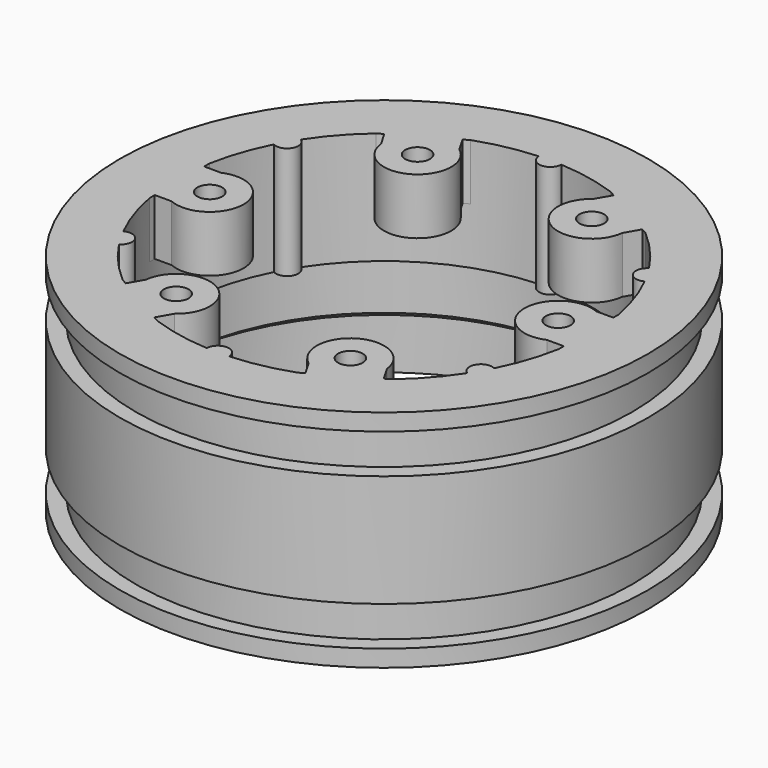
from build123d import *

# Parameters (mm, degrees)
CYLINDER101_R               = 1.1
CYLINDER101_DEPTH           = 5
BOX013_W                    = 2
BOX013_H                    = 5.5
BOX013_DEPTH                = 5
BOX012_W                    = 0.75
BOX012_H                    = 8
BOX012_DEPTH                = 5
CYLINDER100_R               = 3
CYLINDER100_DEPTH           = 5
CUT064_PLACEMENT_ANGLE      = 120
CYLINDER104_R               = 1.1
CYLINDER104_DEPTH           = 5
CUT067_PLACEMENT_ANGLE      = -60
CYLINDER102_R               = 1.1
CYLINDER102_DEPTH           = 5
CUT065_PLACEMENT_ANGLE      = 180
CYLINDER106_R               = 1.1
CYLINDER106_DEPTH           = 5
CYLINDER103_R               = 1.1
CYLINDER103_DEPTH           = 5
CUT066_PLACEMENT_ANGLE      = 240
CYLINDER098_R               = 1.1
CYLINDER098_DEPTH           = 5
CUT063_PLACEMENT_ANGLE      = 60
CYLINDER007_R               = 19.25
CYLINDER007_DEPTH           = 5
CYLINDER018_R               = 22.5
CYLINDER018_DEPTH           = 0.5
CYLINDER070_R               = 20
CYLINDER070_DEPTH           = 5
CYLINDER006_R               = 18.5
CYLINDER006_DEPTH           = 20
CYLINDER002_R               = 22.1
CYLINDER002_DEPTH           = 17
CYLINDER001_R               = 23.5
CYLINDER001_DEPTH           = 17
CYLINDER_R                  = 23.5
CYLINDER_DEPTH              = 20
CYLINDER003_R               = 22
CYLINDER003_DEPTH           = 17
CYLINDER004_R               = 23.5
CYLINDER004_DEPTH           = 10
CUT060_PLACEMENT_ANGLE      = 180
FUSION050_PLACEMENT_ANGLE   = 180
CYLINDER073_R               = 1
CYLINDER073_DEPTH           = 10
CYLINDER073_PLACEMENT_ANGLE = 120
CYLINDER075_R               = 1
CYLINDER075_DEPTH           = 10
CYLINDER075_PLACEMENT_ANGLE = 240
CYLINDER072_R               = 1
CYLINDER072_DEPTH           = 10
CYLINDER072_PLACEMENT_ANGLE = 60
CYLINDER074_R               = 1
CYLINDER074_DEPTH           = 10
CYLINDER076_R               = 1
CYLINDER076_DEPTH           = 10
CYLINDER076_PLACEMENT_ANGLE = -60
CYLINDER071_R               = 1
CYLINDER071_DEPTH           = 10
FUSION030_PLACEMENT_ANGLE   = 30


with BuildPart() as cylinder101:
    # Cylinder101 → Cylinder101 (new body)
    with BuildSketch(Plane(origin=(15.5, 0, 15), x_dir=(1, 0, 0), z_dir=(0, 0, 1))):
        Circle(CYLINDER101_R)
    extrude(amount=CYLINDER101_DEPTH)


with BuildPart() as cube013:
    # Box013 → Box013 (new body)
    with BuildSketch(Plane(origin=(16.5, -2.75, 15), x_dir=(1, 0, 0), z_dir=(0, 0, 1))):
        with Locations((1, 2.75)):
            Rectangle(BOX013_W, BOX013_H)
    extrude(amount=BOX013_DEPTH)


with BuildPart() as cube012:
    # Box012 → Box012 (new body)
    with BuildSketch(Plane(origin=(18.2, -4, 15), x_dir=(1, 0, 0), z_dir=(0, 0, 1))):
        with Locations((0.375, 4)):
            Rectangle(BOX012_W, BOX012_H)
    extrude(amount=BOX012_DEPTH)


with BuildPart() as cylinder100:
    # Cylinder100 → Cylinder100 (new body)
    with BuildSketch(Plane(origin=(15.5, 0, 15), x_dir=(1, 0, 0), z_dir=(0, 0, 1))):
        Circle(CYLINDER100_R)
    extrude(amount=CYLINDER100_DEPTH)


with BuildPart() as cut064:
    # Fusion043 base: copy of Cylinder100
    add(cylinder100.part)

    # Fusion043: union Cube013, Cube012
    add(cube013.part)
    add(cube012.part)

    # Cut064: cut Cylinder101
    add(cylinder101.part, mode=Mode.SUBTRACT)


with BuildPart() as cut064_1:
    # Cut064 placement: moved
    add(cut064.part.moved(Location((0, 0, 9))).rotate(Axis((0, 0, 9), (0, 0, 1)), CUT064_PLACEMENT_ANGLE))


with BuildPart() as cylinder104:
    # Cylinder104 → Cylinder104 (new body)
    with BuildSketch(Plane(origin=(15.5, 0, 15), x_dir=(1, 0, 0), z_dir=(0, 0, 1))):
        Circle(CYLINDER104_R)
    extrude(amount=CYLINDER104_DEPTH)


with BuildPart() as cut067:
    # Fusion046 base: copy of Cylinder100
    add(cylinder100.part)

    # Fusion046: union Cube013, Cube012
    add(cube013.part)
    add(cube012.part)

    # Cut067: cut Cylinder104
    add(cylinder104.part, mode=Mode.SUBTRACT)


with BuildPart() as cut067_1:
    # Cut067 placement: moved
    add(cut067.part.moved(Location((0, 0, 9))).rotate(Axis((0, 0, 9), (0, 0, 1)), CUT067_PLACEMENT_ANGLE))


with BuildPart() as cylinder102:
    # Cylinder102 → Cylinder102 (new body)
    with BuildSketch(Plane(origin=(15.5, 0, 15), x_dir=(1, 0, 0), z_dir=(0, 0, 1))):
        Circle(CYLINDER102_R)
    extrude(amount=CYLINDER102_DEPTH)


with BuildPart() as cut065:
    # Fusion044 base: copy of Cylinder100
    add(cylinder100.part)

    # Fusion044: union Cube013, Cube012
    add(cube013.part)
    add(cube012.part)

    # Cut065: cut Cylinder102
    add(cylinder102.part, mode=Mode.SUBTRACT)


with BuildPart() as cut065_1:
    # Cut065 placement: moved
    add(cut065.part.moved(Location((0, 0, 9))).rotate(Axis((0, 0, 9), (0, 0, 1)), CUT065_PLACEMENT_ANGLE))


with BuildPart() as cylinder106:
    # Cylinder106 → Cylinder106 (new body)
    with BuildSketch(Plane(origin=(15.5, 0, 15), x_dir=(1, 0, 0), z_dir=(0, 0, 1))):
        Circle(CYLINDER106_R)
    extrude(amount=CYLINDER106_DEPTH)


with BuildPart() as cut069:
    # Fusion048 base: copy of Cylinder100
    add(cylinder100.part)

    # Fusion048: union Cube013, Cube012
    add(cube013.part)
    add(cube012.part)

    # Cut069: cut Cylinder106
    add(cylinder106.part, mode=Mode.SUBTRACT)


with BuildPart() as cut069_1:
    # Cut069 placement: moved
    add(cut069.part.moved(Location((0, 0, 9))))


with BuildPart() as cylinder103:
    # Cylinder103 → Cylinder103 (new body)
    with BuildSketch(Plane(origin=(15.5, 0, 15), x_dir=(1, 0, 0), z_dir=(0, 0, 1))):
        Circle(CYLINDER103_R)
    extrude(amount=CYLINDER103_DEPTH)


with BuildPart() as cut066:
    # Fusion045 base: copy of Cylinder100
    add(cylinder100.part)

    # Fusion045: union Cube013, Cube012
    add(cube013.part)
    add(cube012.part)

    # Cut066: cut Cylinder103
    add(cylinder103.part, mode=Mode.SUBTRACT)


with BuildPart() as cut066_1:
    # Cut066 placement: moved
    add(cut066.part.moved(Location((0, 0, 9))).rotate(Axis((0, 0, 9), (0, 0, 1)), CUT066_PLACEMENT_ANGLE))


with BuildPart() as cylinder098:
    # Cylinder098 → Cylinder098 (new body)
    with BuildSketch(Plane(origin=(15.5, 0, 15), x_dir=(1, 0, 0), z_dir=(0, 0, 1))):
        Circle(CYLINDER098_R)
    extrude(amount=CYLINDER098_DEPTH)


with BuildPart() as fusion049:
    # Fusion042 base: copy of Cylinder100
    add(cylinder100.part)

    # Fusion042: union Cube013, Cube012
    add(cube013.part)
    add(cube012.part)

    # Cut063: cut Cylinder098
    add(cylinder098.part, mode=Mode.SUBTRACT)


with BuildPart() as fusion049_1:
    # Cut063 placement: moved
    add(fusion049.part.moved(Location((0, 0, 9))).rotate(Axis((0, 0, 9), (0, 0, 1)), CUT063_PLACEMENT_ANGLE))

    # Fusion049: union Cut064, Cut067, Cut065, Cut069, Cut066
    add(cut064_1.part)
    add(cut067_1.part)
    add(cut065_1.part)
    add(cut069_1.part)
    add(cut066_1.part)


with BuildPart() as cylinder007:
    # Cylinder007 → Cylinder007 (new body)
    with BuildSketch(Plane.XY.offset(5)):
        Circle(CYLINDER007_R)
    extrude(amount=CYLINDER007_DEPTH)


with BuildPart() as cone:
    # Cone → Cone (revolve)
    with BuildSketch(Plane(origin=(0, 0, 5), x_dir=(1, 0, 0), z_dir=(0, -1, 0))):
        Polygon((0, 0), (20, 0), (12, 6), (0, 6), align=None)
    revolve(axis=Axis((0, 0, 5), (0, 0, 1)))


with BuildPart() as cylinder018:
    # Cylinder018 → Cylinder018 (new body)
    with BuildSketch(Plane.XY):
        Circle(CYLINDER018_R)
    extrude(amount=CYLINDER018_DEPTH)


with BuildPart() as cylinder070:
    # Cylinder070 → Cylinder070 (new body)
    with BuildSketch(Plane.XY):
        Circle(CYLINDER070_R)
    extrude(amount=CYLINDER070_DEPTH)


with BuildPart() as cylinder006:
    # Cylinder006 → Cylinder006 (new body)
    with BuildSketch(Plane.XY):
        Circle(CYLINDER006_R)
    extrude(amount=CYLINDER006_DEPTH)


with BuildPart() as cylinder002:
    # Cylinder002 → Cylinder002 (new body)
    with BuildSketch(Plane.XY):
        Circle(CYLINDER002_R)
    extrude(amount=CYLINDER002_DEPTH)


with BuildPart() as cut:
    # Cylinder001 → Cylinder001 (new body)
    with BuildSketch(Plane.XY):
        Circle(CYLINDER001_R)
    extrude(amount=CYLINDER001_DEPTH)

    # Cut: cut Cylinder002
    add(cylinder002.part, mode=Mode.SUBTRACT)


with BuildPart() as cut_1:
    # Cut placement: moved
    add(cut.part.moved(Location((0, 0, 1.5))))


with BuildPart() as cut001:
    # Cylinder → Cylinder (new body)
    with BuildSketch(Plane.XY):
        Circle(CYLINDER_R)
    extrude(amount=CYLINDER_DEPTH)

    # Cut001: cut Cut
    add(cut_1.part, mode=Mode.SUBTRACT)


with BuildPart() as cylinder003:
    # Cylinder003 → Cylinder003 (new body)
    with BuildSketch(Plane.XY):
        Circle(CYLINDER003_R)
    extrude(amount=CYLINDER003_DEPTH)


with BuildPart() as rim_inner_rear:
    # Cylinder004 → Cylinder004 (new body)
    with BuildSketch(Plane.XY.offset(0.5)):
        Circle(CYLINDER004_R)
    extrude(amount=CYLINDER004_DEPTH)

    # Cut002: cut Cylinder003
    add(cylinder003.part, mode=Mode.SUBTRACT)


with BuildPart() as rim_inner_rear_1:
    # Cut002 placement: moved
    add(rim_inner_rear.part.moved(Location((0, 0, 4.5))))

    # Fusion: union Cut001
    add(cut001.part)

    # Cut031: cut Cylinder006
    add(cylinder006.part, mode=Mode.SUBTRACT)

    # Cut057: cut Cylinder070
    add(cylinder070.part, mode=Mode.SUBTRACT)

    # Cut058: cut Cylinder018
    add(cylinder018.part, mode=Mode.SUBTRACT)

    # Cut059: cut Cone
    add(cone.part, mode=Mode.SUBTRACT)

    # Cut060: cut Cylinder007
    add(cylinder007.part, mode=Mode.SUBTRACT)


with BuildPart() as rim_inner_rear_2:
    # Cut060 placement: moved
    add(rim_inner_rear_1.part.moved(Location((0, 0, 44))).rotate(Axis((0, 0, 44), (0, 1, 0)), CUT060_PLACEMENT_ANGLE))

    # Fusion050: union Fusion049
    add(fusion049_1.part)


with BuildPart() as rim_inner_rear_3:
    # Fusion050 placement: moved
    add(rim_inner_rear_2.part.rotate(Axis((0, 0, 0), (0, 1, 0)), FUSION050_PLACEMENT_ANGLE))


with BuildPart() as cylinder073:
    # Cylinder073 → Cylinder073 (new body)
    with BuildSketch(Plane.XY):
        Circle(CYLINDER073_R)
    extrude(amount=CYLINDER073_DEPTH)


with BuildPart() as cylinder073_1:
    # Cylinder073 placement: moved
    add(cylinder073.part.moved(Location((-9.25, 16.02147, 5))).rotate(Axis((-9.25, 16.02147, 5), (0, 0, 1)), CYLINDER073_PLACEMENT_ANGLE))


with BuildPart() as cylinder075:
    # Cylinder075 → Cylinder075 (new body)
    with BuildSketch(Plane.XY):
        Circle(CYLINDER075_R)
    extrude(amount=CYLINDER075_DEPTH)


with BuildPart() as cylinder075_1:
    # Cylinder075 placement: moved
    add(cylinder075.part.moved(Location((-9.25, -16.02147, 5))).rotate(Axis((-9.25, -16.02147, 5), (0, 0, 1)), CYLINDER075_PLACEMENT_ANGLE))


with BuildPart() as cylinder072:
    # Cylinder072 → Cylinder072 (new body)
    with BuildSketch(Plane.XY):
        Circle(CYLINDER072_R)
    extrude(amount=CYLINDER072_DEPTH)


with BuildPart() as cylinder072_1:
    # Cylinder072 placement: moved
    add(cylinder072.part.moved(Location((9.25, 16.02147, 5))).rotate(Axis((9.25, 16.02147, 5), (0, 0, 1)), CYLINDER072_PLACEMENT_ANGLE))


with BuildPart() as cylinder074:
    # Cylinder074 → Cylinder074 (new body)
    with BuildSketch(Plane(origin=(-18.5, 0, 5), x_dir=(-1, 0, 0), z_dir=(0, 0, 1))):
        Circle(CYLINDER074_R)
    extrude(amount=CYLINDER074_DEPTH)


with BuildPart() as cylinder076:
    # Cylinder076 → Cylinder076 (new body)
    with BuildSketch(Plane.XY):
        Circle(CYLINDER076_R)
    extrude(amount=CYLINDER076_DEPTH)


with BuildPart() as cylinder076_1:
    # Cylinder076 placement: moved
    add(cylinder076.part.moved(Location((9.25, -16.02147, 5))).rotate(Axis((9.25, -16.02147, 5), (0, 0, 1)), CYLINDER076_PLACEMENT_ANGLE))


with BuildPart() as fusion070:
    # Cylinder071 → Cylinder071 (new body)
    with BuildSketch(Plane(origin=(18.5, 0, 5), x_dir=(1, 0, 0), z_dir=(0, 0, 1))):
        Circle(CYLINDER071_R)
    extrude(amount=CYLINDER071_DEPTH)

    # Fusion030: union Cylinder073, Cylinder075, Cylinder072, Cylinder074, Cylinder076
    add(cylinder073_1.part)
    add(cylinder075_1.part)
    add(cylinder072_1.part)
    add(cylinder074.part)
    add(cylinder076_1.part)


with BuildPart() as fusion070_1:
    # Fusion030 placement: moved
    add(fusion070.part.moved(Location((0, 0, -39))).rotate(Axis((0, 0, -39), (0, 0, 1)), FUSION030_PLACEMENT_ANGLE))

    # Fusion070: union rim-inner-rear_
    add(rim_inner_rear_3.part)


solid = fusion070_1.part
